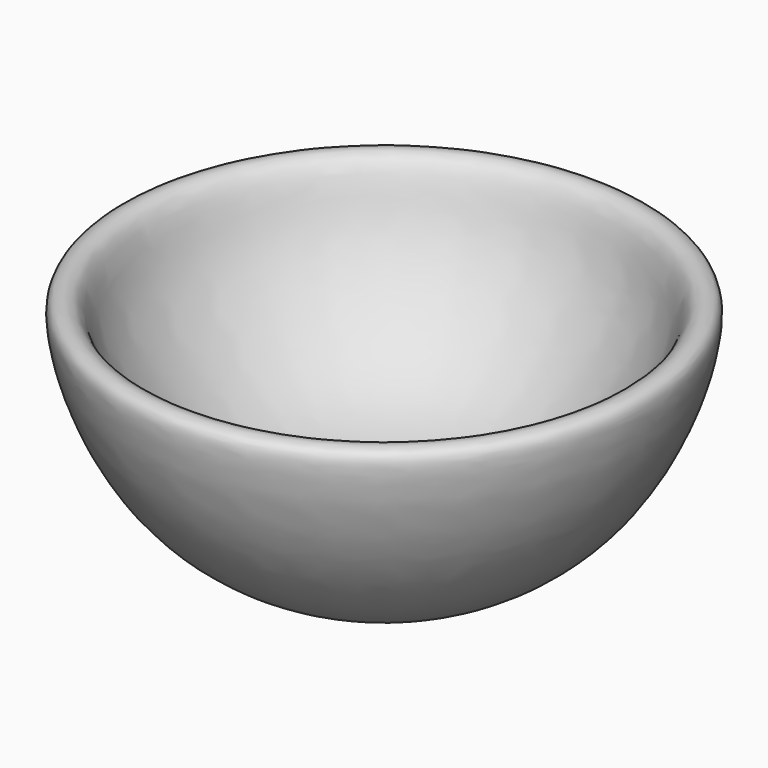
from build123d import *


with BuildPart() as f1:
    # F0 (on Front) → F1 (revolve)
    with BuildSketch(Plane.XZ):
        with BuildLine():
            add(Edge.make_bspline(
                [(0, 6.754941307), (5.007985452, 7.1296097075), (14.9649031469, 8.3124267601), (30.0856225675, 13.6243473363), (43.6602756405, 31.4966482702), (45.0751191278, 43.1749480681), (51.2064034207, 42.9764103431), (50.935895954, 37.2341917799), (48.7676715965, 27.9227229849), (41.24773296, 12.2920899456), (31.1537498685, 3.4314768835), (24.3765376508, 0)],
                knots=[0, 0, 0, 0, 0.1220850306, 0.2480084149, 0.3974058185, 0.4989511346, 0.5584708417, 0.6253096964, 0.7239892562, 0.8545104392, 1, 1, 1, 1], degree=3))
            Line((0, 6.754941307), (0, 0))
            Line((0, 0), (24.3765376508, 0))
        make_face()
    revolve(axis=Axis((0, 0, 3.3774706535), (0, 0, -1)))


solid = f1.part
